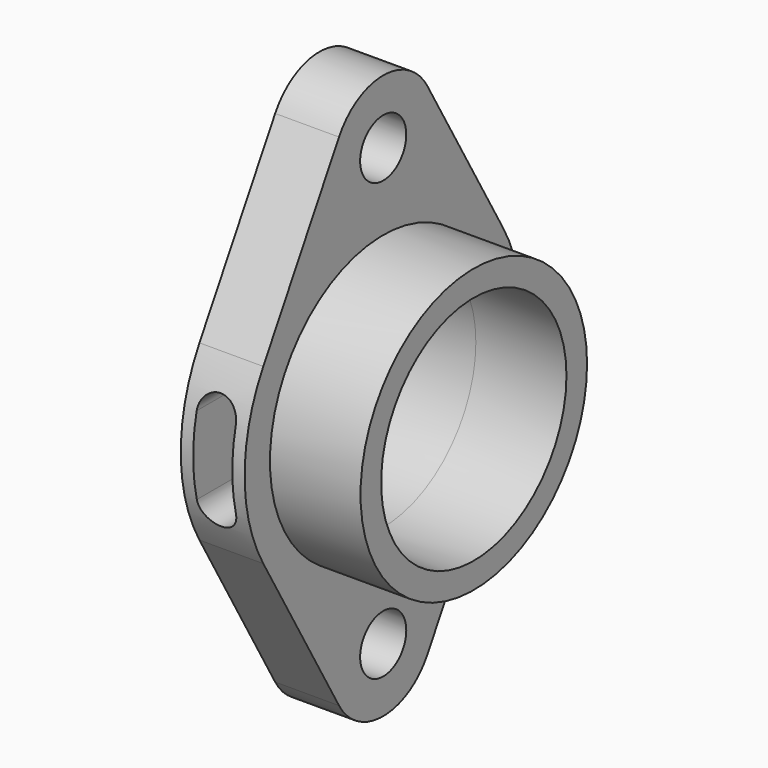
from build123d import *

# Parameters (mm, degrees)
F0_R     = 34.925
F0_R_2   = 28.575
F1_DEPTH = 22.352
F2_R     = 7.112
F3_DEPTH = 15.748
F6_DEPTH = 14.224
F7_R     = 28.575
F8_DEPTH = 15.749


with BuildPart() as f1:
    # F0 (on Right) → F1 (new body)
    with BuildSketch(Plane.YZ):
        Circle(F0_R)
        Circle(F0_R_2, mode=Mode.SUBTRACT)
    extrude(amount=F1_DEPTH)

    # F2 (on Right) → F3 (join)
    with BuildSketch(Plane.YZ):
        with BuildLine():
            ThreePointArc((36.979548, -21.413873), (42.7322, 0), (36.979548, 21.413873))
            Line((36.979548, 21.413873), (13.627988, 61.739606))
            ThreePointArc((13.627988, 61.739606), (0, 69.596), (-13.627988, 61.739606))
            Line((-13.627988, 61.739606), (-36.979548, 21.413873))
            ThreePointArc((-36.979548, 21.413873), (-42.7322, 0), (-36.979548, -21.413873))
            Line((-36.979548, -21.413873), (-13.627988, -61.739606))
            ThreePointArc((-13.627988, -61.739606), (0, -69.596), (13.627988, -61.739606))
            Line((13.627988, -61.739606), (36.979548, -21.413873))
        make_face()
        with Locations((0, -53.848)):
            Circle(F2_R, mode=Mode.SUBTRACT)
        with Locations((0, 53.848)):
            Circle(F2_R, mode=Mode.SUBTRACT)
    extrude(amount=-F3_DEPTH)

    # F5 (on offset) → F6 (cut)
    with BuildSketch(Plane.XZ.offset(42.926)):
        with BuildLine():
            Line((-12.7, 9.54586), (-12.7, -9.75814))
            ThreePointArc((-12.7, -9.75814), (-7.874, -14.58414), (-3.048, -9.75814))
            Line((-3.048, -9.75814), (-3.048, 9.54586))
            ThreePointArc((-3.048, 9.54586), (-7.874, 14.37186), (-12.7, 9.54586))
        make_face()
    extrude(amount=-F6_DEPTH, mode=Mode.SUBTRACT)

    # F7 (on face) → F8 (cut, through all)
    with BuildSketch(Plane.YZ):
        Circle(F7_R)
    extrude(amount=-F8_DEPTH, mode=Mode.SUBTRACT)


solid = f1.part
